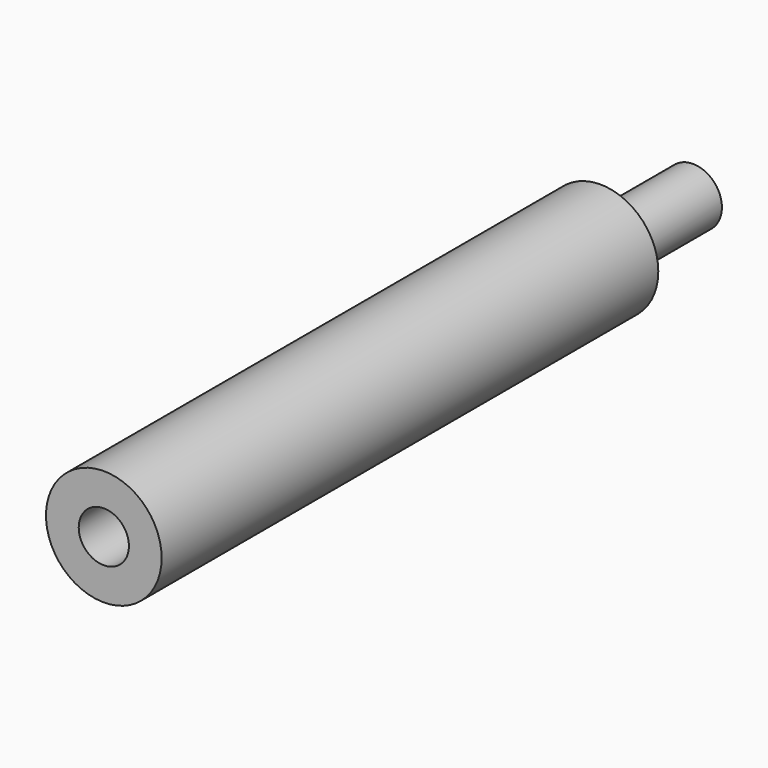
from build123d import *

# Parameters (mm, degrees)
F0_R     = 3.175
F1_DEPTH = 12.7
F2_R     = 6.35
F3_DEPTH = 68.1482
F5_D     = 5.5118
F5_DEPTH = 12.7
F5_TIP   = 1.65591178


with BuildPart() as f1:
    # F0 (on Front) → F1 (new body)
    with BuildSketch(Plane.XZ):
        Circle(F0_R)
    extrude(amount=F1_DEPTH)

    # F2 (on face) → F3 (join)
    with BuildSketch(Plane.XZ.offset(12.7)):
        Circle(F2_R)
    extrude(amount=F3_DEPTH)

    # F5
    with Locations(Plane.XZ.offset(80.8482)):
        with Locations((0, 0)):
            Hole(F5_D / 2, depth=F5_DEPTH)
            with Locations((0, 0, -(F5_DEPTH + F5_TIP / 2))):  # 118° drill point
                Cone(0, F5_D / 2, F5_TIP, mode=Mode.SUBTRACT)


solid = f1.part
